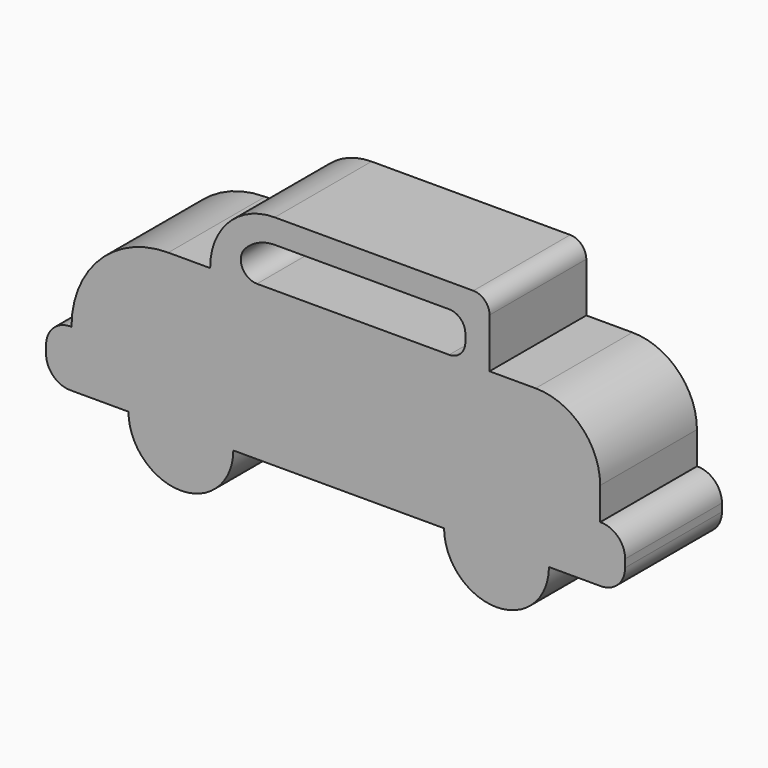
from build123d import *

# Parameters (mm, degrees)
F1_DEPTH = 15


with BuildPart() as f1:
    # F0 (on Front) → F1 (new body)
    with BuildSketch(Plane.XZ):
        with BuildLine():
            ThreePointArc((-44.369697, 3), (-43.491018, 0.87868), (-41.369697, 0))
            Line((-41.369697, 0), (-34.154815, 0))
            ThreePointArc((-34.154815, 0), (-27.654815, -6.5), (-21.154815, 0))
            Line((-21.154815, 0), (4.982472, 0))
            ThreePointArc((4.982472, 0), (11.482472, -6.5), (17.982472, 0))
            Line((17.982472, 0), (24.432209, 0))
            ThreePointArc((24.432209, 0), (26.553529, 0.87868), (27.432209, 3))
            Line((27.432209, 3), (27.432209, 3.964023))
            ThreePointArc((27.432209, 3.964023), (26.553529, 6.085343), (24.432209, 6.964023))
            Line((24.432209, 6.964023), (24.333949, 6.964023))
            Line((24.333949, 6.964023), (24.333949, 10.970772))
            ThreePointArc((24.333949, 10.970772), (21.990804, 16.627626), (16.333949, 18.970772))
            Line((16.333949, 18.970772), (10.616395, 18.970772))
            Line((10.616395, 18.970772), (10.616395, 25.112818))
            ThreePointArc((10.616395, 25.112818), (10.030609, 26.527032), (8.616395, 27.112818))
            Line((8.616395, 27.112818), (-16.014689, 27.112818))
            ThreePointArc((-16.014689, 27.112818), (-21.671543, 24.769673), (-24.014689, 19.112818))
            Line((-24.014689, 19.112818), (-24.014689, 18.970772))
            Line((-24.014689, 18.970772), (-29.21758, 18.970772))
            ThreePointArc((-29.21758, 18.970772), (-37.702862, 15.456053), (-41.21758, 6.970772))
            Line((-41.21758, 6.970772), (-41.21758, 6.964023))
            Line((-41.21758, 6.964023), (-41.369697, 6.964023))
            ThreePointArc((-41.369697, 6.964023), (-43.491018, 6.085343), (-44.369697, 3.964023))
            Line((-44.369697, 3.964023), (-44.369697, 3))
        make_face()
        with BuildLine():
            ThreePointArc((-19.692936, 22.499631), (-18.022914, 23.691795), (-16.014689, 24.112818))
            Line((-16.014689, 24.112818), (5.616395, 24.112818))
            ThreePointArc((5.616395, 24.112818), (7.030609, 23.527032), (7.616395, 22.112818))
            Line((7.616395, 22.112818), (7.616395, 21.144906))
            ThreePointArc((7.616395, 21.144906), (7.030609, 19.730692), (5.616395, 19.144906))
            Line((5.616395, 19.144906), (-18.221637, 19.144906))
            ThreePointArc((-18.221637, 19.144906), (-20.053228, 20.341616), (-19.692936, 22.499631))
        make_face(mode=Mode.SUBTRACT)
    extrude(amount=F1_DEPTH)


solid = f1.part
